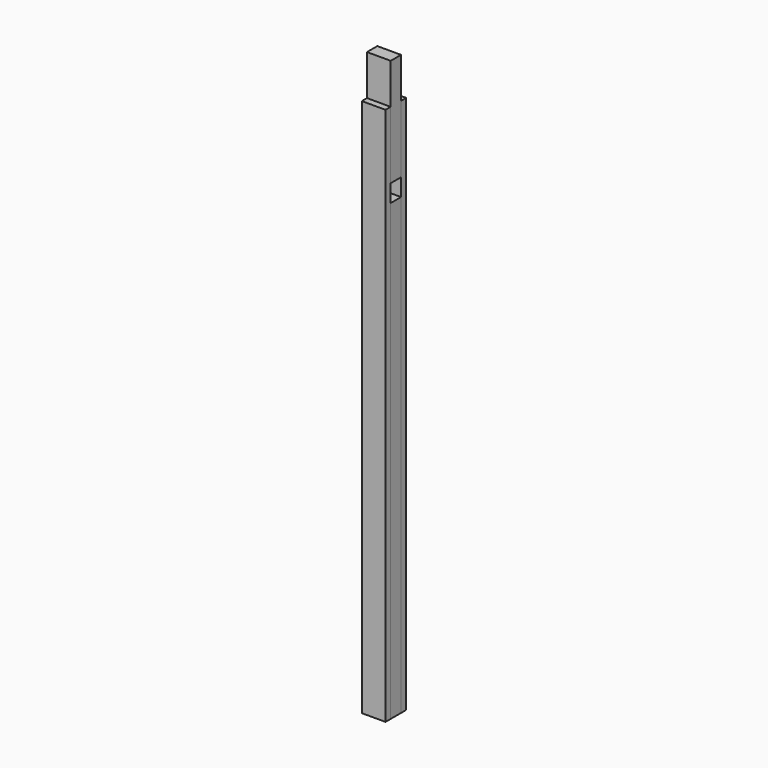
from build123d import *

# Parameters (mm, degrees)
F1_DEPTH = 44
F0_W     = 24
F0_H     = 842.839837
F2_DEPTH = 44


with BuildPart() as f1:
    # F0 (on Right) → F1 (new body)
    with BuildSketch(Plane.YZ):
        Polygon((-24, 0), (-12, 0), (-12, 842.839837), (-12, 875.189781), (-12, 1000), (-24, 1000), align=None)
        Polygon((12, 842.839837), (12, 0), (24, 0), (24, 1000), (12, 1000), (12, 875.189781), align=None)
    extrude(amount=F1_DEPTH)


with BuildPart() as f2:
    # F0 (on Right) → F2 (new body, through all)
    with BuildSketch(Plane.YZ):
        with Locations((0, 421.419918)):
            Rectangle(F0_W, F0_H)
        Polygon((-12, 1000), (-12, 875.189781), (12, 875.189781), (12, 1000), (12, 1075.189781), (-12, 1075.189781), align=None)
    extrude(amount=F2_DEPTH)


solid = Compound([f1.part, f2.part])
